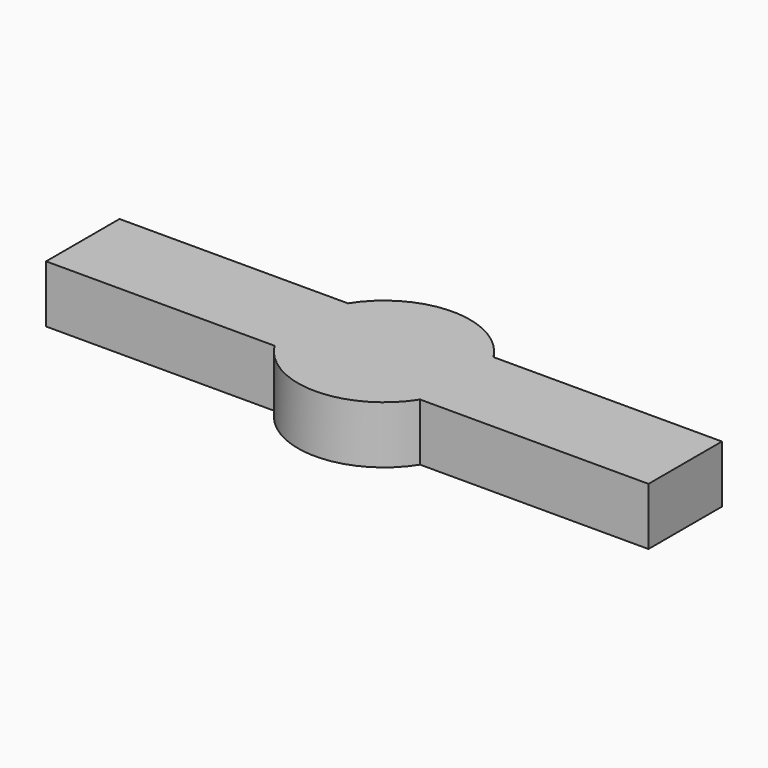
from build123d import *

# Parameters (mm, degrees)
PAD_DEPTH       = 0.25
SKETCH001_R     = 0.75
PAD001_DEPTH    = 0.25
SKETCH002_R     = 0.75
PAD002_DEPTH    = 0.25
SKETCH003_R     = 0.75
PAD003_DEPTH    = 0.25
SKETCH004_R     = 0.75
PAD004_DEPTH    = 0.4
SKETCH005_W     = 20
SKETCH005_H     = 20
POCKET_DEPTH    = 4.921606
SKETCH006_W     = 20
SKETCH006_H     = 20
POCKET001_DEPTH = 7.376


with BuildPart() as part:
    # Sketch (on DatumPlane) → Pad (new body, symmetric)
    with BuildSketch(Plane.XY.offset(0.5675)):
        Polygon((-7.195606, 5), (-7.195606, 0), (-7.195606, -5), (-6.795606, -5), (-6.395606, -5), (-6.395606, -0.4), (10, -0.4), (10, 0.4), (-6.395606, 0.4), (-6.395606, 5), (-6.795606, 5), align=None)
    extrude(amount=PAD_DEPTH, both=True)

    # Sketch001 (on DatumPlane) → Pad001 (join, symmetric)
    with BuildSketch(Plane.XY.offset(0.5675)):
        Circle(SKETCH001_R)
    extrude(amount=PAD001_DEPTH, both=True)

    # Sketch002 (on DatumPlane) → Pad002 (join, symmetric)
    with BuildSketch(Plane.XY.offset(0.5675)):
        with Locations((-6.795606, 5)):
            Circle(SKETCH002_R)
    extrude(amount=PAD002_DEPTH, both=True)

    # Sketch003 (on DatumPlane) → Pad003 (join, symmetric)
    with BuildSketch(Plane.XY.offset(0.5675)):
        with Locations((-6.795606, -5)):
            Circle(SKETCH003_R)
    extrude(amount=PAD003_DEPTH, both=True)

    # Sphere → Sphere (revolve, cut)
    with BuildSketch(Plane.XZ):
        with BuildLine():
            ThreePointArc((0, -0.635), (0.635, 0), (0, 0.635))
            Line((0, 0.635), (0, -0.635))
        make_face()
    revolve(axis=Axis((0, 0, 0), (0, 0, 1)), mode=Mode.SUBTRACT)

    # Sphere001 → Sphere001 (revolve, cut)
    with BuildSketch(Plane(origin=(-6.795606, 5, 1.135), x_dir=(1, 0, 0), z_dir=(0, -1, 0))):
        with BuildLine():
            ThreePointArc((0, -0.635), (0.635, 0), (0, 0.635))
            Line((0, 0.635), (0, -0.635))
        make_face()
    revolve(axis=Axis((-6.795606, 5, 1.135), (0, 0, 1)), mode=Mode.SUBTRACT)

    # Sphere002 → Sphere002 (revolve, cut)
    with BuildSketch(Plane(origin=(-6.795606, -5, 1.135), x_dir=(1, 0, 0), z_dir=(0, -1, 0))):
        with BuildLine():
            ThreePointArc((0, -0.635), (0.635, 0), (0, 0.635))
            Line((0, 0.635), (0, -0.635))
        make_face()
    revolve(axis=Axis((-6.795606, -5, 1.135), (0, 0, 1)), mode=Mode.SUBTRACT)

    # Sketch004 (on DatumPlane) → Pad004 (join, symmetric)
    with BuildSketch(Plane(origin=(0, 0, 0.5675), x_dir=(1, 0, 0), z_dir=(0, -1, 0))):
        with Locations((6.8, 0)):
            Circle(SKETCH004_R)
    extrude(amount=PAD004_DEPTH, both=True)

    # Sphere003 → Sphere003 (revolve, cut)
    with BuildSketch(Plane(origin=(6.8, 0.7175, 0.5675), x_dir=(1, 0, 0), z_dir=(0, -1, 0))):
        with BuildLine():
            ThreePointArc((0, -0.635), (0.635, 0), (0, 0.635))
            Line((0, 0.635), (0, -0.635))
        make_face()
    revolve(axis=Axis((6.8, 0.7175, 0.5675), (0, 0, 1)), mode=Mode.SUBTRACT)

    # Sketch005 (on DatumPlane) → Pocket (cut, through all)
    with BuildSketch(Plane(origin=(-2.625, 0, 0), x_dir=(0, -1, 0), z_dir=(-1, 0, 0))):
        Rectangle(SKETCH005_W, SKETCH005_H)
    extrude(amount=POCKET_DEPTH, mode=Mode.SUBTRACT)

    # Sketch006 (on DatumPlane) → Pocket001 (cut, through all)
    with BuildSketch(Plane.YZ.offset(2.625)):
        Rectangle(SKETCH006_W, SKETCH006_H)
    extrude(amount=POCKET001_DEPTH, mode=Mode.SUBTRACT)


solid = part.part
